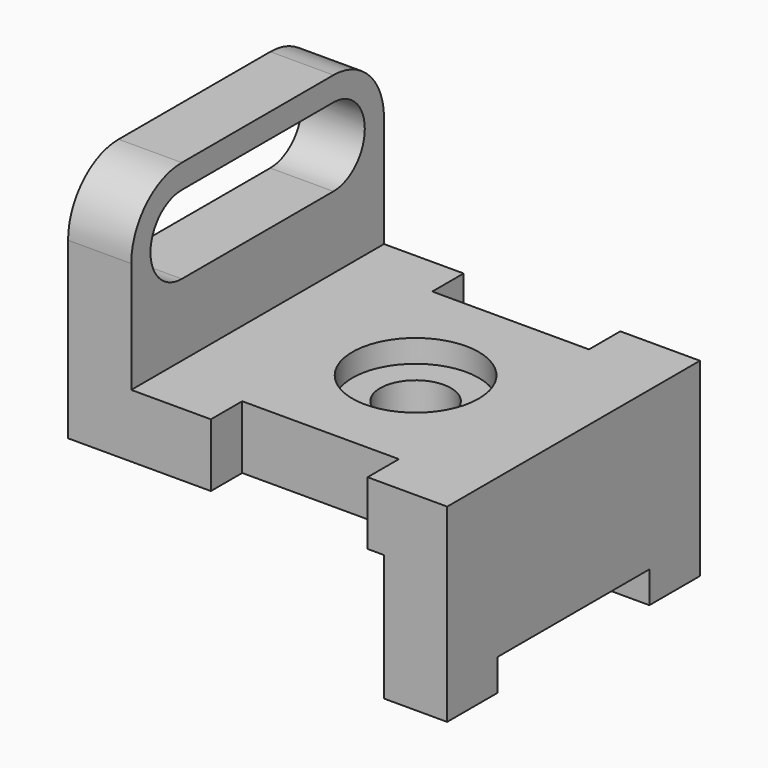
from build123d import *

# Parameters (mm, degrees)
F0_W     = 31.496
F0_H     = 12.7
F1_DEPTH = 23.876
F2_DEPTH = 31.75
F3_W     = 38.1
F3_H     = 6.35
F4_DEPTH = 76.201
F6_DEPTH = 25.4
F7_R     = 7.112
F8_DEPTH = 38.101
F7_R_2   = 12.7
F9_DEPTH = 4.572


with BuildPart() as f1:
    # F0 (on Front) → F1 (new body, symmetric)
    with BuildSketch(Plane.XZ):
        with Locations((44.45, 6.35)):
            Rectangle(F0_W, F0_H)
    extrude(amount=F1_DEPTH, both=True)

    # F0 (on Front) → F2 (join, symmetric)
    with BuildSketch(Plane.XZ):
        Polygon((0, 47.752), (0, 0), (28.702, 0), (28.702, 12.7), (12.7, 12.7), (12.7, 47.752), align=None)
        Polygon((60.198, 12.7), (60.198, 0), (63.5, 0), (63.5, -25.4), (76.2, -25.4), (76.2, 12.7), align=None)
    extrude(amount=F2_DEPTH, both=True)

    # F3 (on face) → F4 (cut, through all)
    with BuildSketch(Plane.YZ.offset(76.2)):
        with Locations((0, -22.225)):
            Rectangle(F3_W, F3_H)
    extrude(amount=-F4_DEPTH, mode=Mode.SUBTRACT)

    # F5 (on face) → F6 (cut)
    with BuildSketch(Plane.YZ.offset(12.7)):
        with BuildLine():
            ThreePointArc((-31.75, 35.052), (-28.030256, 44.032256), (-19.05, 47.752))
            Line((-19.05, 47.752), (-31.75, 47.752))
            Line((-31.75, 47.752), (-31.75, 35.052))
        make_face()
        with BuildLine():
            Line((19.05, 42.926), (-19.05, 42.926))
            ThreePointArc((-19.05, 42.926), (-26.924, 35.052), (-19.05, 27.178))
            Line((-19.05, 27.178), (19.05, 27.178))
            ThreePointArc((19.05, 27.178), (26.924, 35.052), (19.05, 42.926))
        make_face()
        with BuildLine():
            Line((31.75, 47.752), (19.05, 47.752))
            ThreePointArc((19.05, 47.752), (28.030256, 44.032256), (31.75, 35.052))
            Line((31.75, 35.052), (31.75, 47.752))
        make_face()
    extrude(amount=-F6_DEPTH, mode=Mode.SUBTRACT)

    # F7 (on face) → F8 (cut, through all)
    with BuildSketch(Plane.XY.offset(12.7)):
        with Locations((44.45, 0)):
            Circle(F7_R)
    extrude(amount=-F8_DEPTH, mode=Mode.SUBTRACT)

    # F7 (on face) → F9 (cut)
    with BuildSketch(Plane.XY.offset(12.7)):
        with Locations((44.45, 0)):
            Circle(F7_R_2)
        with Locations((44.45, 0)):
            Circle(F7_R, mode=Mode.SUBTRACT)
    extrude(amount=-F9_DEPTH, mode=Mode.SUBTRACT)


solid = f1.part
